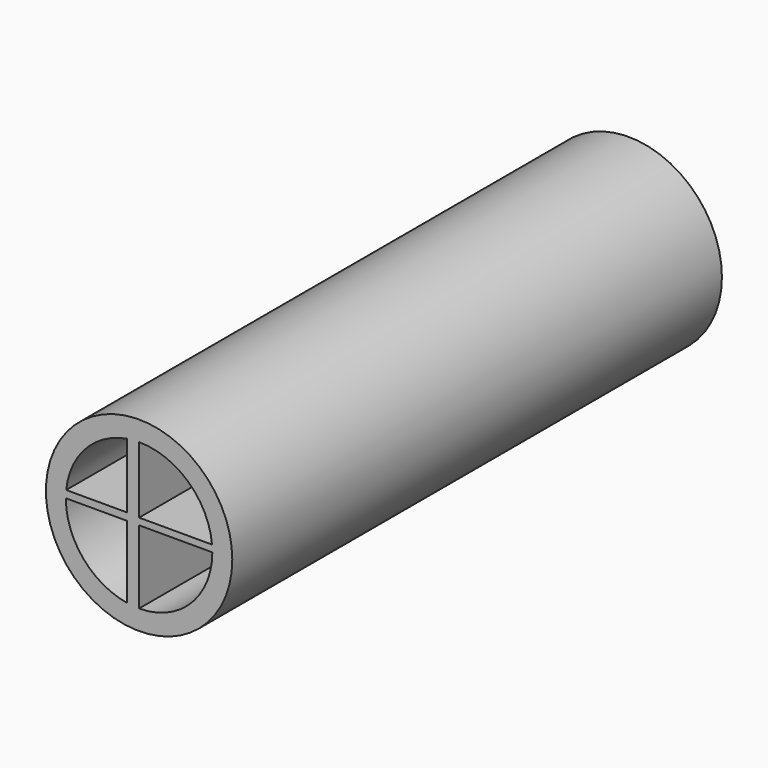
from build123d import *

# Parameters (mm, degrees)
F0_R     = 23.20358
F1_DEPTH = 152.4


with BuildPart() as f1:
    # F0 (on Front) → F1 (new body)
    with BuildSketch(Plane.XZ):
        Circle(F0_R)
        with BuildLine():
            ThreePointArc((-2.96408, -17.995849), (-13.904967, -11.802045), (-18.238321, 0))
            Line((-18.238321, 0), (-2.96408, 0))
            Line((-2.96408, 0), (-2.96408, -17.995849))
        make_face(mode=Mode.SUBTRACT)
        with BuildLine():
            ThreePointArc((18.238321, 0), (12.89644, -12.89644), (0, -18.238321))
            Line((0, -18.238321), (0, 0))
            Line((0, 0), (18.238321, 0))
        make_face(mode=Mode.SUBTRACT)
        with BuildLine():
            ThreePointArc((-18.145688, 1.835854), (-13.292552, 12.487771), (-2.96408, 17.995849))
            Line((-2.96408, 17.995849), (-2.96408, 1.835854))
            Line((-2.96408, 1.835854), (-18.145688, 1.835854))
        make_face(mode=Mode.SUBTRACT)
        with BuildLine():
            Line((0, 3.556), (0, 18.238321))
            ThreePointArc((0, 18.238321), (12.289425, 13.476141), (18.161105, 1.676494))
            Line((18.161105, 1.676494), (0, 1.676494))
            Line((0, 1.676494), (0, 3.556))
        make_face(mode=Mode.SUBTRACT)
    extrude(amount=F1_DEPTH)


solid = f1.part
